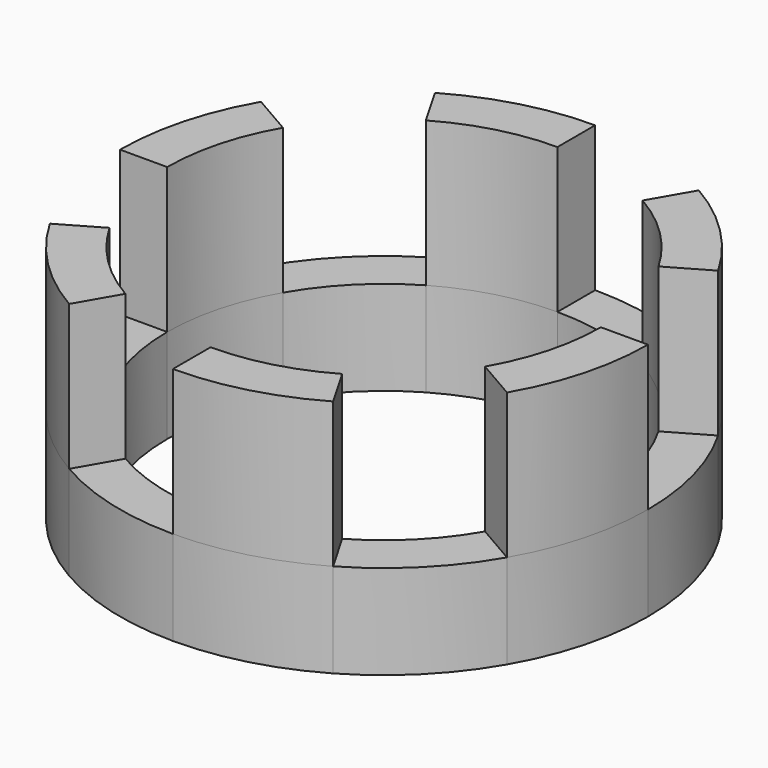
from build123d import *

# Parameters (mm, degrees)
F1_DEPTH = 12.7
F2_DEPTH = 5


with BuildPart() as f1:
    # F0 (on Top) → F1 (new body)
    with BuildSketch(Plane.XY):
        with BuildLine():
            Line((0, 11.5), (0, 14))
            ThreePointArc((0, 14), (-3.6234666314, 13.522961568), (-7, 12.124355653))
            Line((-7, 12.124355653), (-5.75, 9.9592921435))
            ThreePointArc((-5.75, 9.9592921435), (-2.9764190187, 11.1081470023), (0, 11.5))
        make_face()
    extrude(amount=F1_DEPTH)


with BuildPart() as f1b:
    # F0 (on Top) → F1, piece 2 (new body)
    with BuildSketch(Plane.XY):
        with BuildLine():
            Line((-14, 0), (-11.5, 0))
            ThreePointArc((-11.5, 0), (-11.1081470023, 2.9764190187), (-9.9592921435, 5.75))
            Line((-9.9592921435, 5.75), (-12.124355653, 7))
            ThreePointArc((-12.124355653, 7), (-13.522961568, 3.6234666314), (-14, 0))
        make_face()
    extrude(amount=F1_DEPTH)


with BuildPart() as f1c:
    # F0 (on Top) → F1, piece 3 (new body)
    with BuildSketch(Plane.XY):
        with BuildLine():
            Line((9.9592921435, 5.75), (12.124355653, 7))
            ThreePointArc((12.124355653, 7), (9.8994949366, 9.8994949366), (7, 12.124355653))
            Line((7, 12.124355653), (5.75, 9.9592921435))
            ThreePointArc((5.75, 9.9592921435), (8.1317279836, 8.1317279836), (9.9592921435, 5.75))
        make_face()
    extrude(amount=F1_DEPTH)


with BuildPart() as f1d:
    # F0 (on Top) → F1, piece 4 (new body)
    with BuildSketch(Plane.XY):
        with BuildLine():
            ThreePointArc((12.124355653, -7), (13.522961568, -3.6234666314), (14, 0))
            Line((14, 0), (11.5, 0))
            ThreePointArc((11.5, 0), (11.1081470023, -2.9764190187), (9.9592921435, -5.75))
            Line((9.9592921435, -5.75), (12.124355653, -7))
        make_face()
    extrude(amount=F1_DEPTH)


with BuildPart() as f1e:
    # F0 (on Top) → F1, piece 5 (new body)
    with BuildSketch(Plane.XY):
        with BuildLine():
            ThreePointArc((0, -14), (3.6234666314, -13.522961568), (7, -12.124355653))
            Line((7, -12.124355653), (5.75, -9.9592921435))
            ThreePointArc((5.75, -9.9592921435), (2.9764190187, -11.1081470023), (0, -11.5))
            Line((0, -11.5), (0, -14))
        make_face()
    extrude(amount=F1_DEPTH)


with BuildPart() as f1f:
    # F0 (on Top) → F1, piece 6 (new body)
    with BuildSketch(Plane.XY):
        with BuildLine():
            ThreePointArc((-5.75, -9.9592921435), (-8.1317279836, -8.1317279836), (-9.9592921435, -5.75))
            Line((-9.9592921435, -5.75), (-12.124355653, -7))
            ThreePointArc((-12.124355653, -7), (-9.8994949366, -9.8994949366), (-7, -12.124355653))
            Line((-7, -12.124355653), (-5.75, -9.9592921435))
        make_face()
    extrude(amount=F1_DEPTH)


with BuildPart() as f2:
    # F0 (on Top) → F2 (new body)
    with BuildSketch(Plane.XY):
        with BuildLine():
            Line((11.5, 0), (14, 0))
            ThreePointArc((14, 0), (13.522961568, 3.6234666314), (12.124355653, 7))
            Line((12.124355653, 7), (9.9592921435, 5.75))
            ThreePointArc((9.9592921435, 5.75), (11.1081470023, 2.9764190187), (11.5, 0))
        make_face()
        with BuildLine():
            ThreePointArc((12.124355653, -7), (13.522961568, -3.6234666314), (14, 0))
            Line((14, 0), (11.5, 0))
            ThreePointArc((11.5, 0), (11.1081470023, -2.9764190187), (9.9592921435, -5.75))
            Line((9.9592921435, -5.75), (12.124355653, -7))
        make_face()
        with BuildLine():
            Line((9.9592921435, 5.75), (12.124355653, 7))
            ThreePointArc((12.124355653, 7), (9.8994949366, 9.8994949366), (7, 12.124355653))
            Line((7, 12.124355653), (5.75, 9.9592921435))
            ThreePointArc((5.75, 9.9592921435), (8.1317279836, 8.1317279836), (9.9592921435, 5.75))
        make_face()
        with BuildLine():
            ThreePointArc((7, -12.124355653), (9.8994949366, -9.8994949366), (12.124355653, -7))
            Line((12.124355653, -7), (9.9592921435, -5.75))
            ThreePointArc((9.9592921435, -5.75), (8.1317279836, -8.1317279836), (5.75, -9.9592921435))
            Line((5.75, -9.9592921435), (7, -12.124355653))
        make_face()
        with BuildLine():
            Line((5.75, 9.9592921435), (7, 12.124355653))
            ThreePointArc((7, 12.124355653), (3.6234666314, 13.522961568), (0, 14))
            Line((0, 14), (0, 11.5))
            ThreePointArc((0, 11.5), (2.9764190187, 11.1081470023), (5.75, 9.9592921435))
        make_face()
        with BuildLine():
            ThreePointArc((0, -14), (3.6234666314, -13.522961568), (7, -12.124355653))
            Line((7, -12.124355653), (5.75, -9.9592921435))
            ThreePointArc((5.75, -9.9592921435), (2.9764190187, -11.1081470023), (0, -11.5))
            Line((0, -11.5), (0, -14))
        make_face()
        with BuildLine():
            Line((0, 11.5), (0, 14))
            ThreePointArc((0, 14), (-3.6234666314, 13.522961568), (-7, 12.124355653))
            Line((-7, 12.124355653), (-5.75, 9.9592921435))
            ThreePointArc((-5.75, 9.9592921435), (-2.9764190187, 11.1081470023), (0, 11.5))
        make_face()
        with BuildLine():
            ThreePointArc((-7, -12.124355653), (-3.6234666314, -13.522961568), (0, -14))
            Line((0, -14), (0, -11.5))
            ThreePointArc((0, -11.5), (-2.9764190187, -11.1081470023), (-5.75, -9.9592921435))
            Line((-5.75, -9.9592921435), (-7, -12.124355653))
        make_face()
        with BuildLine():
            ThreePointArc((-9.9592921435, -5.75), (-11.1081470023, -2.9764190187), (-11.5, 0))
            Line((-11.5, 0), (-14, 0))
            ThreePointArc((-14, 0), (-13.522961568, -3.6234666314), (-12.124355653, -7))
            Line((-12.124355653, -7), (-9.9592921435, -5.75))
        make_face()
        with BuildLine():
            Line((-14, 0), (-11.5, 0))
            ThreePointArc((-11.5, 0), (-11.1081470023, 2.9764190187), (-9.9592921435, 5.75))
            Line((-9.9592921435, 5.75), (-12.124355653, 7))
            ThreePointArc((-12.124355653, 7), (-13.522961568, 3.6234666314), (-14, 0))
        make_face()
        with BuildLine():
            ThreePointArc((-9.9592921435, 5.75), (-8.1317279836, 8.1317279836), (-5.75, 9.9592921435))
            Line((-5.75, 9.9592921435), (-7, 12.124355653))
            ThreePointArc((-7, 12.124355653), (-9.8994949366, 9.8994949366), (-12.124355653, 7))
            Line((-12.124355653, 7), (-9.9592921435, 5.75))
        make_face()
        with BuildLine():
            ThreePointArc((-5.75, -9.9592921435), (-8.1317279836, -8.1317279836), (-9.9592921435, -5.75))
            Line((-9.9592921435, -5.75), (-12.124355653, -7))
            ThreePointArc((-12.124355653, -7), (-9.8994949366, -9.8994949366), (-7, -12.124355653))
            Line((-7, -12.124355653), (-5.75, -9.9592921435))
        make_face()
    extrude(amount=F2_DEPTH)


solid = Compound([f1.part, f1b.part, f1c.part, f1d.part, f1e.part, f1f.part, f2.part])
